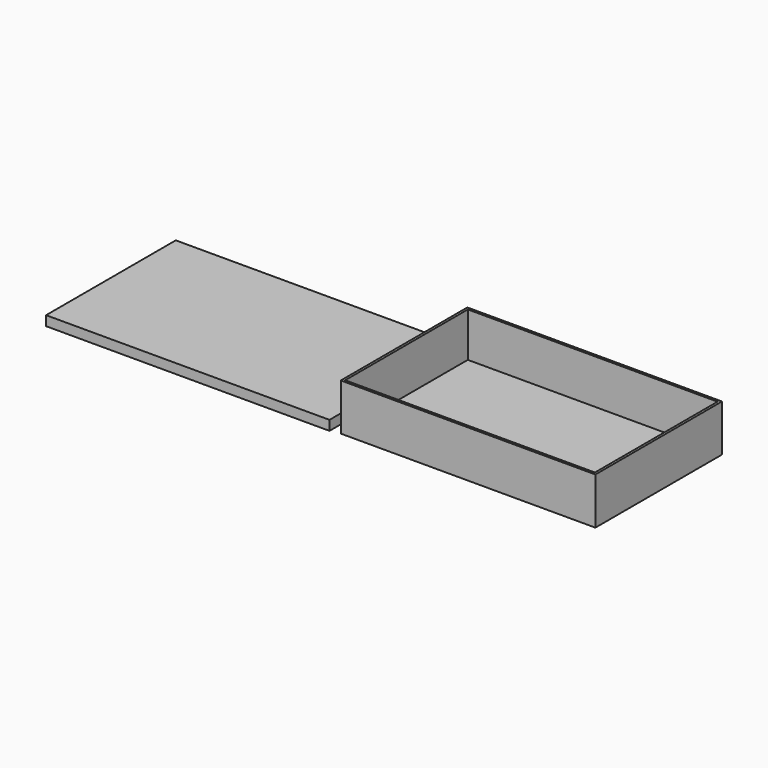
from build123d import *

# Parameters (mm, degrees)
F0_W     = 266.640037
F0_H     = 165.645823
F1_DEPTH = 49.022
F2_W     = 296.809137
F2_H     = 169.770792
F3_DEPTH = 10.16
F4_T     = -2.54


with BuildPart() as f1:
    # F0 (on Top) → F1 (new body)
    with BuildSketch(Plane.XY):
        with Locations((-14.28236, 0.356428)):
            Rectangle(F0_W, F0_H)
    extrude(amount=F1_DEPTH)

    # F4
    f4_openings = [f1.faces().sort_by_distance(p)[0] for p in [
        (-14.282361, 0.356428, 49.022),
    ]]
    offset(amount=F4_T, openings=f4_openings)


with BuildPart() as f3:
    # F2 (on Top) → F3 (new body)
    with BuildSketch(Plane.XY):
        with Locations((-306.280404, 0.423476)):
            Rectangle(F2_W, F2_H)
    extrude(amount=F3_DEPTH)


solid = Compound([f1.part, f3.part])
